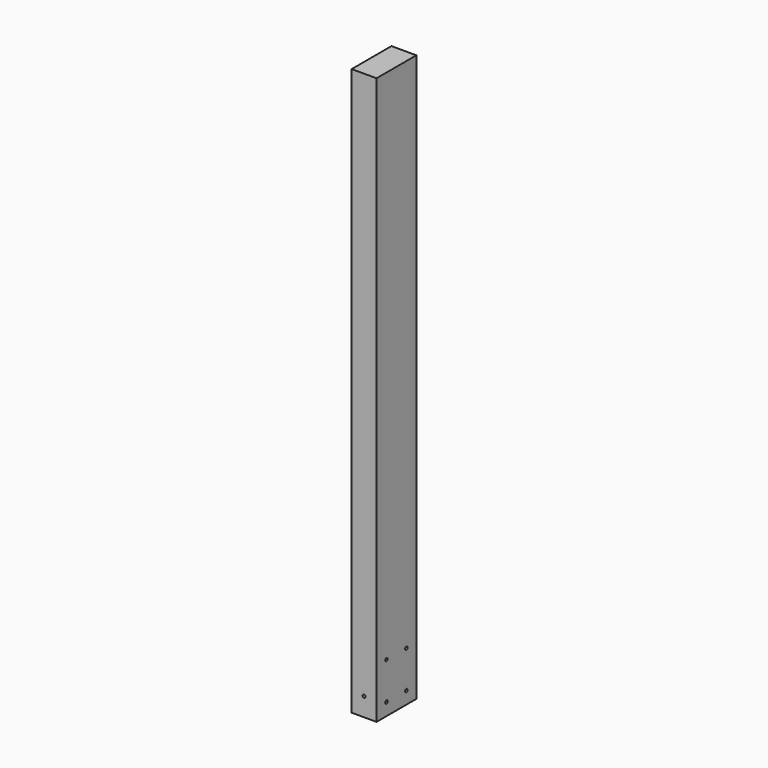
from build123d import *

# Parameters (mm, degrees)
F0_W     = 40
F0_H     = 80
F1_DEPTH = 911
F2_R     = 2.5
F3_DEPTH = 40.001
F4_R     = 2.5
F5_DEPTH = 80.001


with BuildPart() as f1:
    # F0 (on Top) → F1 (new body)
    with BuildSketch(Plane.XY):
        with Locations((-0.58816, -5.555982)):
            Rectangle(F0_W, F0_H)
    extrude(amount=F1_DEPTH)

    # F2 (on face) → F3 (cut, through all)
    with BuildSketch(Plane.YZ.offset(19.41184)):
        with Locations((-25.555982, 80)):
            Circle(F2_R)
        with Locations((14.444018, 80)):
            Circle(F2_R)
        with Locations((14.444018, 20)):
            Circle(F2_R)
        with Locations((-25.555982, 20)):
            Circle(F2_R)
    extrude(amount=-F3_DEPTH, mode=Mode.SUBTRACT)

    # F4 (on face) → F5 (cut, through all)
    with BuildSketch(Plane.XZ.offset(45.555982)):
        with Locations((-0.58816, 30)):
            Circle(F4_R)
    extrude(amount=-F5_DEPTH, mode=Mode.SUBTRACT)


solid = f1.part
